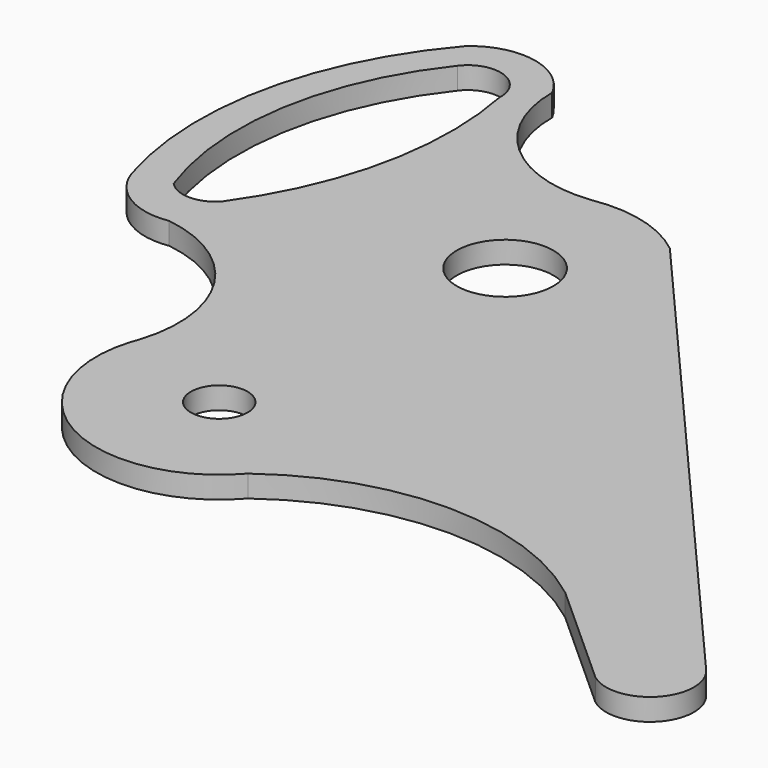
from build123d import *

# Parameters (mm, degrees)
F0_R     = 42
F0_R_2   = 22
F0_R_3   = 12.901868
F1_DEPTH = 10


with BuildPart() as f1:
    # F0 (on Top) → F1 (new body)
    with BuildSketch(Plane.XY):
        with BuildLine():
            ThreePointArc((41, -144), (37.47252, -163.561048), (27.334478, -180.657768))
            ThreePointArc((27.334478, -180.657768), (100.203919, -156.644464), (172.726821, -181.684887))
            Line((172.726821, -181.684887), (140.923761, -153.049283))
            ThreePointArc((140.923761, -153.049283), (140.263921, -125.028677), (168.268095, -123.864214))
            Line((168.268095, -123.864214), (249.14881, -196.952867))
            Line((249.14881, -196.952867), (36.190925, 48.554647))
            ThreePointArc((36.190925, 48.554647), (14.899264, 59.239726), (-8.903941, 60.195344))
            ThreePointArc((-8.903941, 60.195344), (-52.757292, 74.069623), (-71.428074, 116.105488))
            ThreePointArc((-71.428074, 116.105488), (-92.518222, 131.800363), (-117.873706, 124.856092))
            ThreePointArc((-117.873706, 124.856092), (-153.071831, 53.57957), (-149.368638, -25.827842))
            ThreePointArc((-149.368638, -25.827842), (-136.477604, -42.133351), (-116.082925, -46.146513))
            ThreePointArc((-116.082925, -46.146513), (-73.712222, -73.402797), (-67.049916, -123.34071))
            ThreePointArc((-67.049916, -123.34071), (-4.483234, -88.996385), (41, -144))
        make_face()
        Circle(F0_R, mode=Mode.SUBTRACT)
        with BuildLine():
            ThreePointArc((-132.830703, -22.664997), (-139.071139, 47.108744), (-110.727757, 111.170985))
            ThreePointArc((-110.727757, 111.170985), (-93.675207, 116.262042), (-83.761583, 101.482719))
            ThreePointArc((-83.761583, 101.482719), (-84.456511, 36.63114), (-110.727757, -22.664997))
            ThreePointArc((-110.727757, -22.664997), (-121.77923, -27.522761), (-132.830703, -22.664997))
        make_face(mode=Mode.SUBTRACT)
        Circle(F0_R)
        Circle(F0_R_2, mode=Mode.SUBTRACT)
        with BuildLine():
            ThreePointArc((-67.049916, -123.34071), (-67.751785, -125.463845), (-68.532281, -127.559353))
            ThreePointArc((-68.532281, -127.559353), (-42.133155, -192.987671), (27.334478, -180.657768))
            ThreePointArc((27.334478, -180.657768), (37.47252, -163.561048), (41, -144))
            ThreePointArc((41, -144), (-4.483234, -88.996385), (-67.049916, -123.34071))
        make_face()
        with Locations((-15, -144)):
            Circle(F0_R_3, mode=Mode.SUBTRACT)
        with BuildLine():
            Line((140.923761, -153.049283), (172.726821, -181.684887))
            Line((172.726821, -181.684887), (221.831546, -225.898979))
            ThreePointArc((221.831546, -225.898979), (248.586117, -223.784931), (249.14881, -196.952867))
            Line((249.14881, -196.952867), (168.268095, -123.864214))
            ThreePointArc((168.268095, -123.864214), (140.263921, -125.028677), (140.923761, -153.049283))
        make_face()
    extrude(amount=F1_DEPTH)


solid = f1.part
